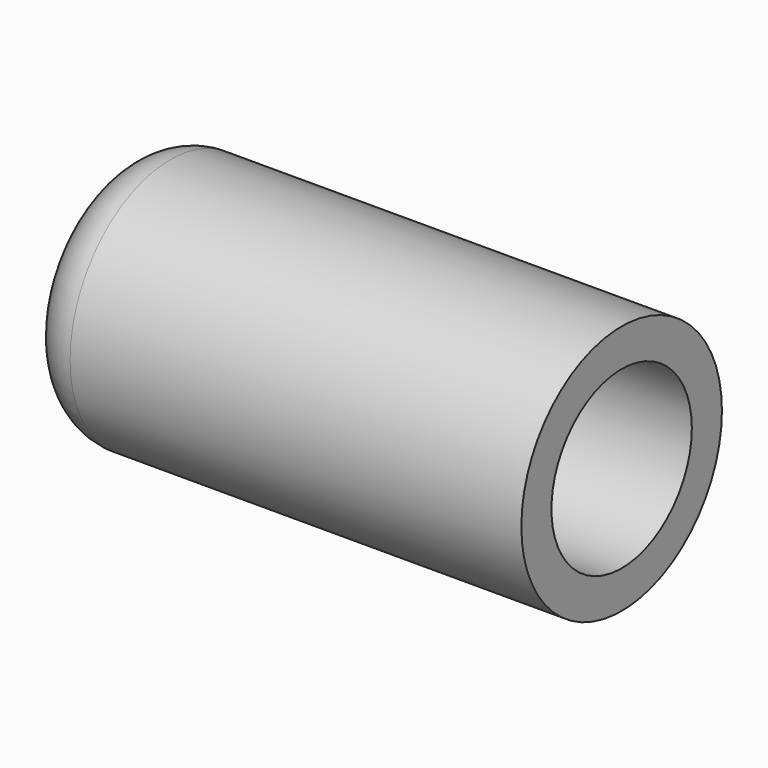
from build123d import *

# Parameters (mm, degrees)
F0_R     = 6.35
F1_DEPTH = 25.4
F2_R     = 4.445
F3_DEPTH = 17.78
F4_R     = 2.54


with BuildPart() as f1:
    # F0 (on Right) → F1 (new body)
    with BuildSketch(Plane.YZ):
        Circle(F0_R)
    extrude(amount=F1_DEPTH)

    # F2 (on face) → F3 (cut)
    with BuildSketch(Plane.YZ.offset(25.4)):
        Circle(F2_R)
    extrude(amount=-F3_DEPTH, mode=Mode.SUBTRACT)

    # F4
    f4_edges = [f1.edges().sort_by_distance(p)[0] for p in [
        (0, -6.35, 0),
    ]]
    fillet(f4_edges, radius=F4_R)


solid = f1.part
